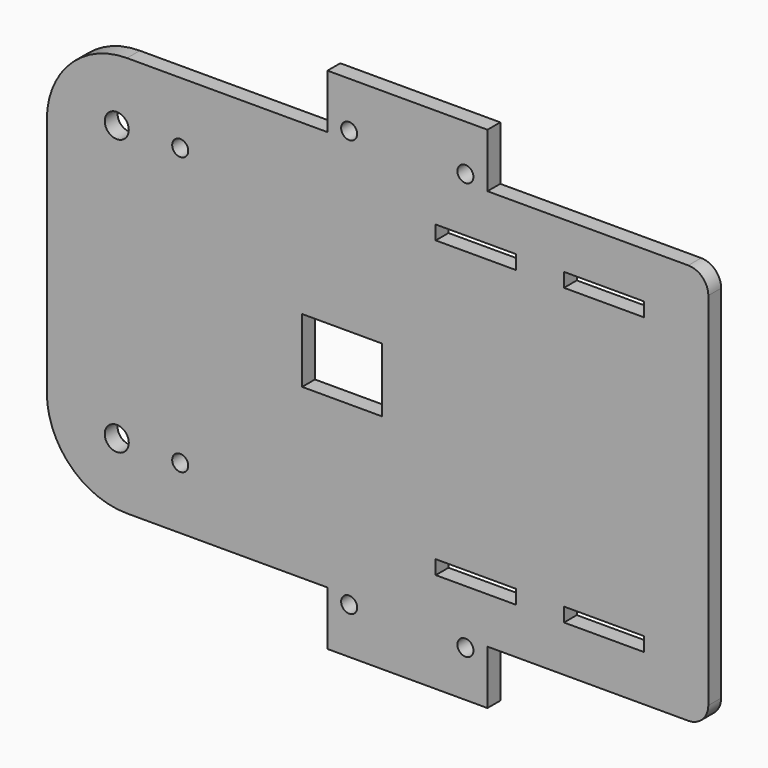
from build123d import *

# Parameters (mm, degrees)
F0_R     = 3
F0_R_2   = 2
F0_W     = 20
F0_H     = 3.5
F0_W_2   = 19.923515
F0_H_2   = 16
F1_DEPTH = 4


with BuildPart() as f1:
    # F0 (on Front) → F1 (new body)
    with BuildSketch(Plane.XZ):
        with BuildLine():
            Line((80, -45), (80, 45))
            ThreePointArc((80, 45), (78.535534, 48.535534), (75, 50))
            Line((75, 50), (24.908386, 50))
            Line((24.908386, 50), (24.908386, 63.5))
            Line((24.908386, 63.5), (-15, 63.5))
            Line((-15, 63.5), (-15, 50))
            Line((-15, 50), (-65, 50))
            ThreePointArc((-65, 50), (-79.142136, 44.142136), (-85, 30))
            Line((-85, 30), (-85, -30))
            ThreePointArc((-85, -30), (-79.142136, -44.142136), (-65, -50))
            Line((-65, -50), (-15, -50))
            Line((-15, -50), (-15, -63.5))
            Line((-15, -63.5), (24.908386, -63.5))
            Line((24.908386, -63.5), (24.908386, -50))
            Line((24.908386, -50), (75, -50))
            ThreePointArc((75, -50), (78.535534, -48.535534), (80, -45))
        make_face()
        with Locations((-67.562935, -34.355122)):
            Circle(F0_R, mode=Mode.SUBTRACT)
        with Locations((-51.738652, -34.573868)):
            Circle(F0_R_2, mode=Mode.SUBTRACT)
        with Locations((-9.591614, -52)):
            Circle(F0_R_2, mode=Mode.SUBTRACT)
        with Locations((19.408386, -52)):
            Circle(F0_R_2, mode=Mode.SUBTRACT)
        with Locations((22, -36.75)):
            Rectangle(F0_W, F0_H, mode=Mode.SUBTRACT)
        with Locations((54, -36.75)):
            Rectangle(F0_W, F0_H, mode=Mode.SUBTRACT)
        with Locations((-11.361982, 0)):
            Rectangle(F0_W_2, F0_H_2, mode=Mode.SUBTRACT)
        with Locations((-67.562935, 34.355122)):
            Circle(F0_R, mode=Mode.SUBTRACT)
        with Locations((-51.738652, 34.573868)):
            Circle(F0_R_2, mode=Mode.SUBTRACT)
        with Locations((-9.591614, 52)):
            Circle(F0_R_2, mode=Mode.SUBTRACT)
        with Locations((22, 36.75)):
            Rectangle(F0_W, F0_H, mode=Mode.SUBTRACT)
        with Locations((19.408386, 52)):
            Circle(F0_R_2, mode=Mode.SUBTRACT)
        with Locations((54, 36.75)):
            Rectangle(F0_W, F0_H, mode=Mode.SUBTRACT)
    extrude(amount=F1_DEPTH)


solid = f1.part
